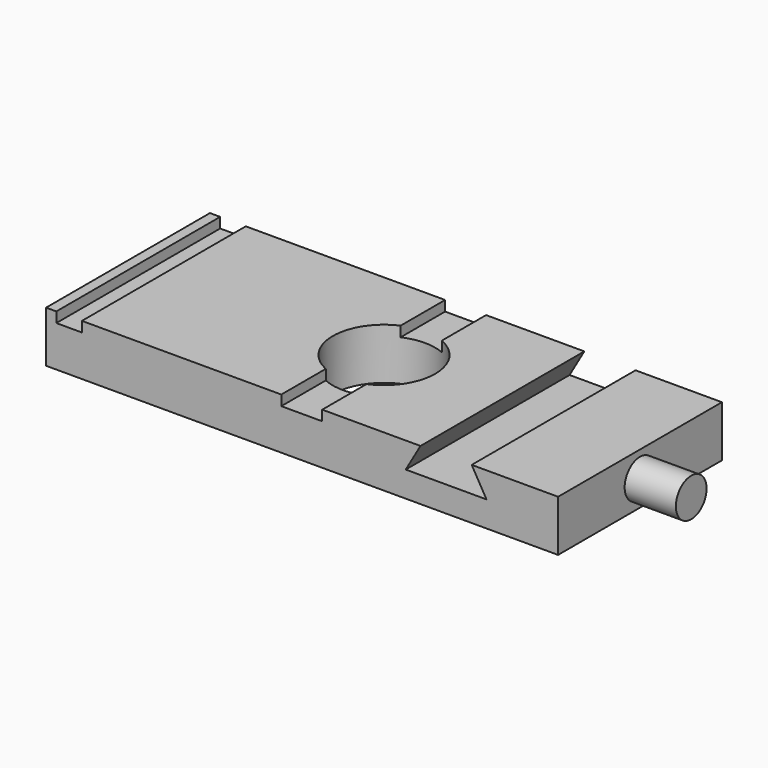
from build123d import *

# Parameters (mm, degrees)
F0_W     = 127
F0_H     = 50.8
F0_R     = 12.7
F1_DEPTH = 12.7
F2_W     = 6.35
F2_H     = 50.8
F3_DEPTH = 2.54
F5_DEPTH = 50.801
F6_R     = 4.7625
F7_DEPTH = 12.7


with BuildPart() as f1:
    # F0 (on Top) → F1 (new body)
    with BuildSketch(Plane.XY):
        Rectangle(F0_W, F0_H)
        Circle(F0_R, mode=Mode.SUBTRACT)
    extrude(amount=F1_DEPTH)

    # F2 (on face) → F3 (cut)
    with BuildSketch(Plane.XY.offset(12.7)):
        with BuildLine():
            Line((5.0018308049, 25.4), (-5.1581691951, 25.4))
            Line((-5.1581691951, 25.4), (-5.1581691951, 11.6053130313))
            ThreePointArc((-5.1581691951, 11.6053130313), (-0.0852899505, 12.699713604), (5.0018308049, 11.6735465305))
            Line((5.0018308049, 11.6735465305), (5.0018308049, 25.4))
        make_face()
        with BuildLine():
            Line((-5.1581691951, -11.6053130313), (-5.1581691951, -25.4))
            Line((-5.1581691951, -25.4), (5.0018308049, -25.4))
            Line((5.0018308049, -25.4), (5.0018308049, -11.6735465305))
            ThreePointArc((5.0018308049, -11.6735465305), (-0.0852899505, -12.699713604), (-5.1581691951, -11.6053130313))
        make_face()
        with Locations((-57.785, 0)):
            Rectangle(F2_W, F2_H)
    extrude(amount=-F3_DEPTH, mode=Mode.SUBTRACT)

    # F4 (on face) → F5 (cut, through all)
    with BuildSketch(Plane.XZ.offset(25.4)):
        Polygon((42.0720207126, 12.7), (29.3720207126, 12.7), (25.7058465033, 6.35), (45.738194922, 6.35), align=None)
    extrude(amount=-F5_DEPTH, mode=Mode.SUBTRACT)

    # F6 (on face) → F7 (join)
    with BuildSketch(Plane.YZ.offset(63.5)):
        with Locations((0, 6.35)):
            Circle(F6_R)
    extrude(amount=F7_DEPTH)


solid = f1.part
